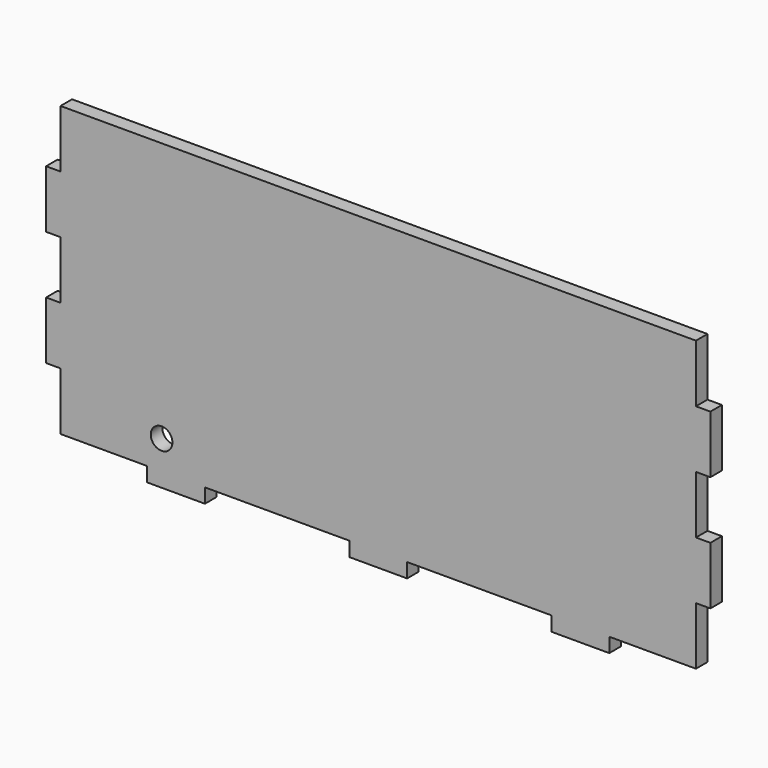
from build123d import *

# Parameters (mm, degrees)
F1_DEPTH = 3.175


with BuildPart() as f1:
    # F0 (on Front) → F1 (new body)
    with BuildSketch(Plane.XZ):
        Polygon((-113.5953023911, 200.9700069427), (-253.2953023911, 200.9700069427), (-253.2953023911, 188.2700069427), (-256.4703023911, 188.2700069427), (-256.4703023911, 175.5700069427), (-253.2953023911, 175.5700069427), (-253.2953023911, 162.8700069427), (-256.4703023911, 162.8700069427), (-256.4703023911, 150.1700069427), (-253.2953023911, 150.1700069427), (-253.2953023911, 137.4700069427), (-234.2453023911, 137.4700069427), (-234.2453023911, 134.2950069427), (-221.5453023911, 134.2950069427), (-221.5453023911, 137.4700069427), (-189.7953023911, 137.4700069427), (-189.7953023911, 134.2950069427), (-177.0953023911, 134.2950069427), (-177.0953023911, 137.4700069427), (-145.3453023911, 137.4700069427), (-145.3453023911, 134.2950069427), (-132.6453023911, 134.2950069427), (-132.6453023911, 137.4700069427), (-113.5953023911, 137.4700069427), (-113.5953023911, 150.1700069427), (-110.4203023911, 150.1700069427), (-110.4203023911, 162.8700069427), (-113.5953023911, 162.8700069427), (-113.5953023911, 175.5700069427), (-110.4203023911, 175.5700069427), (-110.4203023911, 188.2700069427), (-113.5953023911, 188.2700069427), align=None)
        with BuildLine():
            ThreePointArc((-231.0703023911, 146.2012569427), (-229.3865043684, 145.5038049654), (-228.6890523911, 143.8200069427))
            ThreePointArc((-228.6890523911, 143.8200069427), (-232.7541004138, 142.13620892), (-231.0703023911, 146.2012569427))
        make_face(mode=Mode.SUBTRACT)
    extrude(amount=F1_DEPTH)


solid = f1.part
